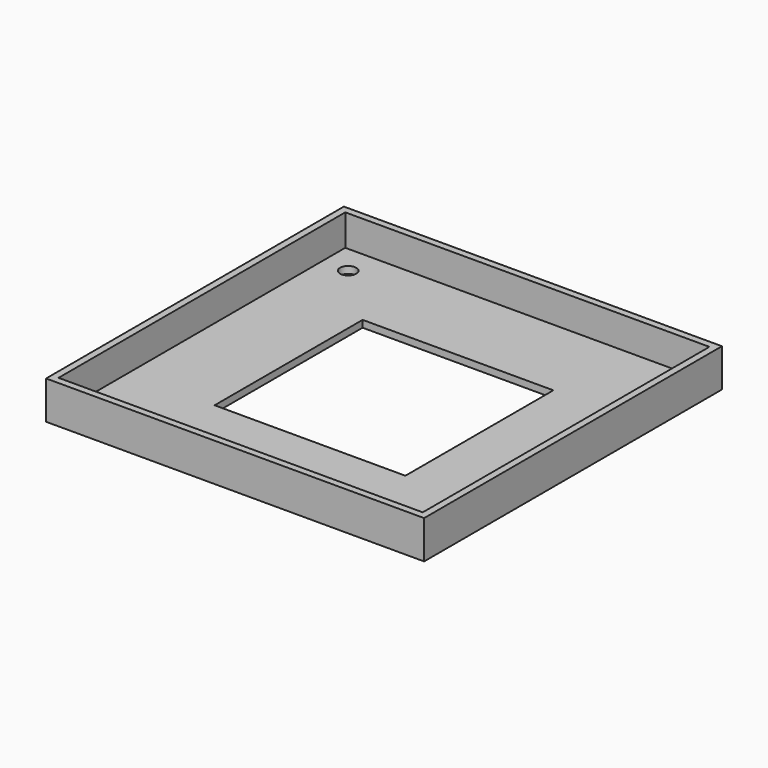
from build123d import *

# Parameters (mm, degrees)
F0_W     = 327
F0_H     = 322
F1_DEPTH = 16.5
F2_T     = -6
F3_W     = 165
F3_H     = 160
F4_DEPTH = 16.501
F6_D     = 14


with BuildPart() as f1:
    # F0 (on Top) → F1 (new body, symmetric)
    with BuildSketch(Plane.XY):
        Rectangle(F0_W, F0_H)
    extrude(amount=F1_DEPTH, both=True)

    # F2
    f2_openings = [f1.faces().sort_by_distance(p)[0] for p in [
        (0, 0, 16.5),
    ]]
    offset(amount=F2_T, openings=f2_openings)

    # F3 (on Top) → F4 (cut, through all)
    with BuildSketch(Plane.XY):
        Rectangle(F3_W, F3_H)
    extrude(amount=-F4_DEPTH, mode=Mode.SUBTRACT)

    # F6 (through all)
    with Locations(Plane.XY.offset(-10.5)):
        with Locations((-135, 130), (135, 130), (135, -130), (-135, -130)):
            Hole(F6_D / 2)


solid = f1.part
